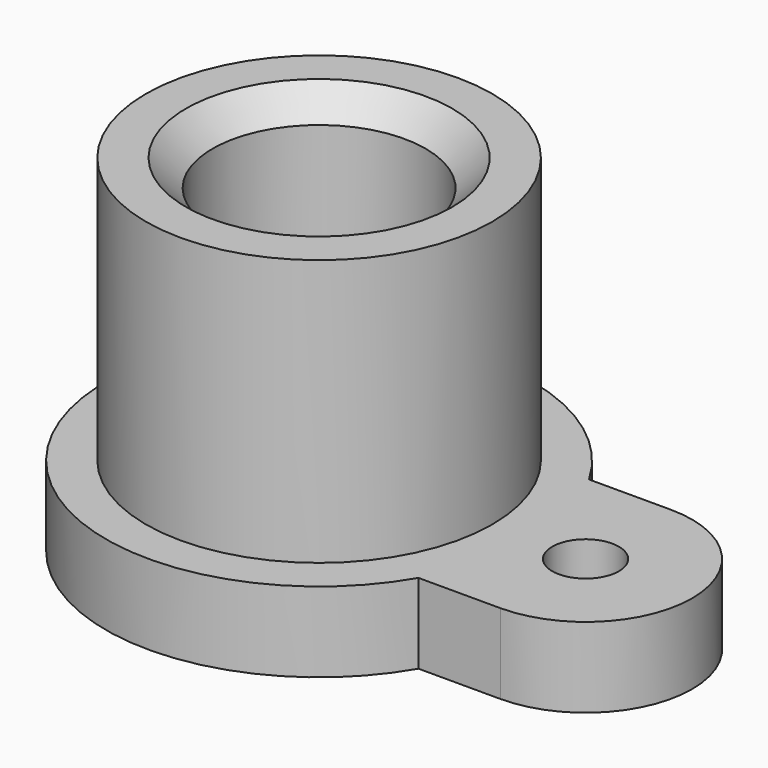
from build123d import *

# Parameters (mm, degrees)
SKETCH_R      = 2.5
SKETCH_R_2    = 1.25
PAD_DEPTH     = 3
SKETCH001_R   = 6.5
SKETCH001_R_2 = 4
PAD001_DEPTH  = 10
CHAMFER_SIZE  = 1
SKETCH002_R   = 4
SKETCH002_R_2 = 2.5
PAD002_DEPTH  = 3


with BuildPart() as part:
    # Sketch → Pad (new body)
    with BuildSketch(Plane.XY):
        with BuildLine():
            ThreePointArc((6.928203, 4), (-8, 0), (6.928203, -4))
            Line((10, -4), (6.928203, -4))
            ThreePointArc((10, -4), (14, 0), (10, 4))
            Line((10, 4), (6.928203, 4))
        make_face()
        Circle(SKETCH_R, mode=Mode.SUBTRACT)
        with Locations((10, 0)):
            Circle(SKETCH_R_2, mode=Mode.SUBTRACT)
    extrude(amount=PAD_DEPTH)

    # Sketch001 (on Face8 of Pad) → Pad001 (join)
    with BuildSketch(Plane.XY.offset(3)):
        Circle(SKETCH001_R)
        Circle(SKETCH001_R_2, mode=Mode.SUBTRACT)
    extrude(amount=PAD001_DEPTH)

    # Chamfer
    chamfer_edges = [part.edges().sort_by_distance(p)[0] for p in [
        (-4, 0, 13),
    ]]
    chamfer(chamfer_edges, length=CHAMFER_SIZE)

    # Sketch002 (on Face6 of Chamfer) → Pad002 (join)
    with BuildSketch(Plane.XY.offset(3)):
        Circle(SKETCH002_R)
        Circle(SKETCH002_R_2, mode=Mode.SUBTRACT)
    extrude(amount=PAD002_DEPTH)


solid = part.part
